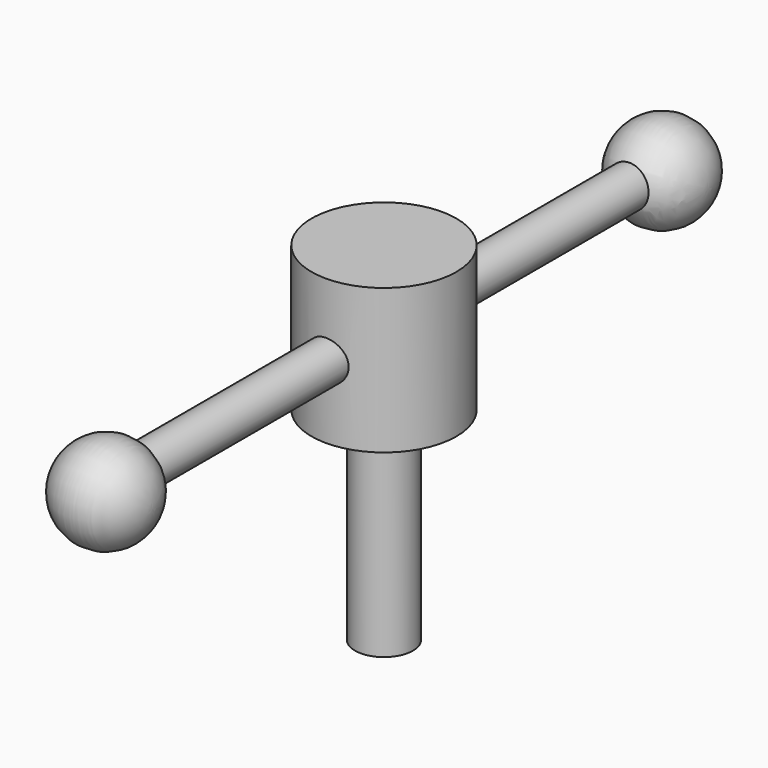
from build123d import *

# Parameters (mm, degrees)
F0_R      = 15.875
F1_DEPTH  = 31.75
F2_R      = 4.445
F3_DEPTH  = 76.2
F9_R      = 6.35
F10_DEPTH = 44.45


with BuildPart() as f1:
    # F0 (on Top) → F1 (new body)
    with BuildSketch(Plane.XY):
        Circle(F0_R)
    extrude(amount=F1_DEPTH)

    # F2 (on Front) → F3 (join)
    with BuildSketch(Plane.XZ):
        with Locations((0, 15.875)):
            Circle(F2_R)
    extrude(amount=F3_DEPTH)

    # F4: F1 across plane


with BuildPart() as f1_1:
    add(f1.part)
    add(f1.part.mirror(Plane.XZ))

    # F6 (on offset) → F7 (revolve)
    with BuildSketch(Plane.XZ.offset(76.2)):
        with BuildLine():
            Line((-10.1586410938, 15.1315933636), (10.1586410938, 15.1315933636))
            ThreePointArc((10.1586410938, 15.1315933636), (0, 25.4577593243), (-10.1586410938, 15.1315933636))
        make_face()
    revolve(axis=Axis((0, -76.2, 15.1315933636), (1, 0, 0)))

    # F8: F1 across plane


with BuildPart() as f1_2:
    add(f1_1.part)
    add(f1_1.part.mirror(Plane.XZ))

    # F9 (on face) → F10 (join)
    with BuildSketch(Plane(origin=(0, 0, 0), x_dir=(1, 0, 0), z_dir=(0, 0, -1))):
        Circle(F9_R)
    extrude(amount=F10_DEPTH)


solid = f1_2.part
